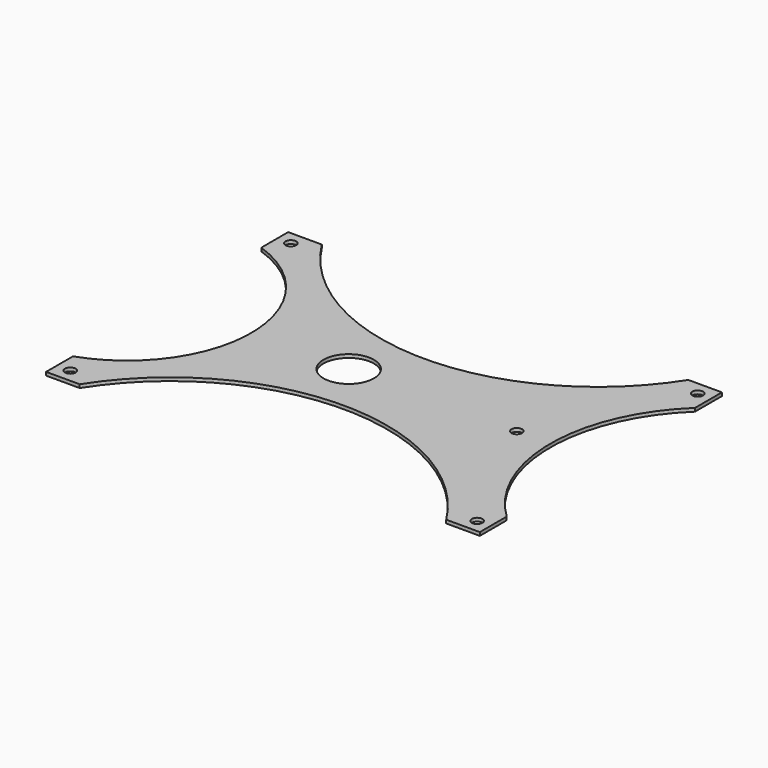
from build123d import *

# Parameters (mm, degrees)
F0_W     = 150
F0_H     = 90
F0_R     = 1.5875
F0_R_2   = 7.5
F1_DEPTH = 1
F2_W     = 21
F2_H     = 90
F3_DEPTH = 1.001
F5_DEPTH = 25


with BuildPart() as f1:
    # F0 (on Top) → F1 (new body)
    with BuildSketch(Plane.XY):
        Rectangle(F0_W, F0_H)
        with Locations((-50, -41)):
            Circle(F0_R, mode=Mode.SUBTRACT)
        with Locations((71, -41)):
            Circle(F0_R, mode=Mode.SUBTRACT)
        with Locations((-50, 41)):
            Circle(F0_R, mode=Mode.SUBTRACT)
        Circle(F0_R_2, mode=Mode.SUBTRACT)
        with Locations((50, 0)):
            Circle(F0_R, mode=Mode.SUBTRACT)
        with Locations((71, 41)):
            Circle(F0_R, mode=Mode.SUBTRACT)
    extrude(amount=F1_DEPTH)

    # F2 (on Top) → F3 (cut, through all)
    with BuildSketch(Plane.XY):
        with Locations((-64.5, 0)):
            Rectangle(F2_W, F2_H)
    extrude(amount=F3_DEPTH, mode=Mode.SUBTRACT)

    # F4 (on Top) → F5 (cut)
    with BuildSketch(Plane.XY):
        with BuildLine():
            ThreePointArc((-44, 45), (10.5, 15), (65, 45))
            Line((65, 45), (-44, 45))
        make_face()
        with BuildLine():
            Line((-54, 35), (-54, -35))
            ThreePointArc((-54, -35), (-29, 0), (-54, 35))
        make_face()
        with BuildLine():
            Line((-44, -45), (65, -45))
            ThreePointArc((65, -45), (10.5, -15), (-44, -45))
        make_face()
        with BuildLine():
            Line((75, -35), (75, 35))
            ThreePointArc((75, 35), (60, 0), (75, -35))
        make_face()
    extrude(amount=F5_DEPTH, mode=Mode.SUBTRACT)


solid = f1.part
